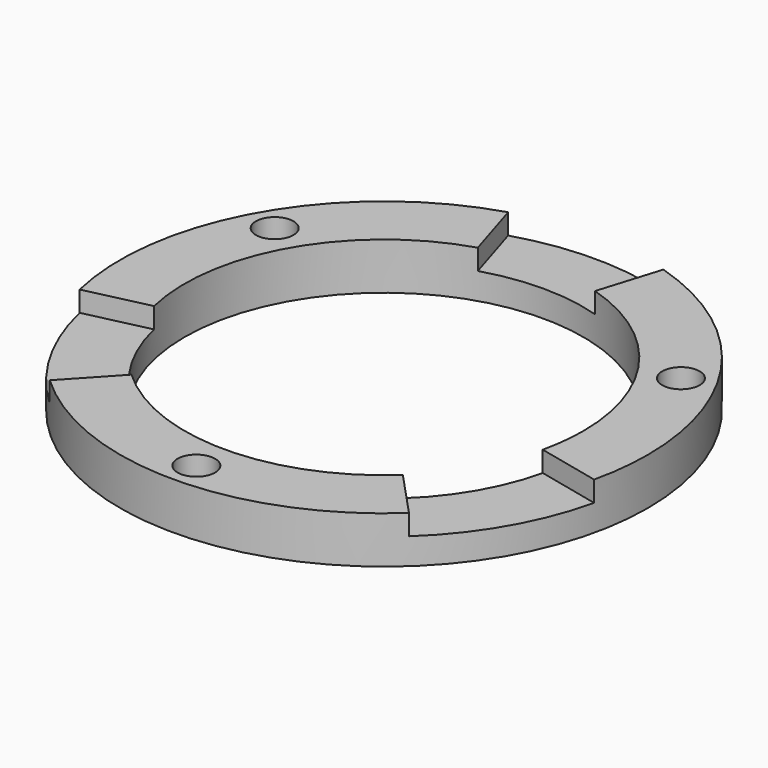
from build123d import *

# Parameters (mm, degrees)
F0_R     = 22.5
F1_DEPTH = 4
F2_R     = 17
F3_DEPTH = 4
F5_DEPTH = 1.75
F6_R     = 1.6
F7_DEPTH = 4


with BuildPart() as f1:
    # F0 (on Top) → F1 (new body)
    with BuildSketch(Plane.XY):
        Circle(F0_R)
    extrude(amount=F1_DEPTH)

    # F2 (on face) → F3 (cut)
    with BuildSketch(Plane.XY.offset(4)):
        Circle(F2_R)
    extrude(amount=-F3_DEPTH, mode=Mode.SUBTRACT)

    # F4 (on face) → F5 (cut)
    with BuildSketch(Plane.XY.offset(4)):
        with BuildLine():
            Line((-6.6176470588, 21.5048075417), (-5, 16.2480768093))
            ThreePointArc((-5, 16.2480768093), (0, 17), (5, 16.2480768093))
            Line((5, 16.2480768093), (6.6176470588, 21.5048075417))
            ThreePointArc((6.6176470588, 21.5048075417), (0, 22.5), (-6.6176470588, 21.5048075417))
        make_face()
        with BuildLine():
            Line((-16.5712472795, -3.7939113857), (-21.932533164, -5.0213533046))
            ThreePointArc((-21.932533164, -5.0213533046), (-19.4855715851, -11.25), (-15.3148861052, -16.4834542371))
            Line((-15.3148861052, -16.4834542371), (-11.5712472795, -12.4541654236))
            ThreePointArc((-11.5712472795, -12.4541654236), (-14.7224318643, -8.5), (-16.5712472795, -3.7939113857))
        make_face()
        with BuildLine():
            Line((11.5712472795, -12.4541654236), (15.3148861052, -16.4834542371))
            ThreePointArc((15.3148861052, -16.4834542371), (19.4855715851, -11.25), (21.932533164, -5.0213533046))
            Line((21.932533164, -5.0213533046), (16.5712472795, -3.7939113857))
            ThreePointArc((16.5712472795, -3.7939113857), (14.7224318643, -8.5), (11.5712472795, -12.4541654236))
        make_face()
    extrude(amount=-F5_DEPTH, mode=Mode.SUBTRACT)

    # F6 (on face) → F7 (cut)
    with BuildSketch(Plane.XY.offset(4)):
        with Locations((0, -20)):
            Circle(F6_R)
        with Locations((17.3205080757, 10)):
            Circle(F6_R)
        with Locations((-17.3205080757, 10)):
            Circle(F6_R)
    extrude(amount=-F7_DEPTH, mode=Mode.SUBTRACT)


solid = f1.part
